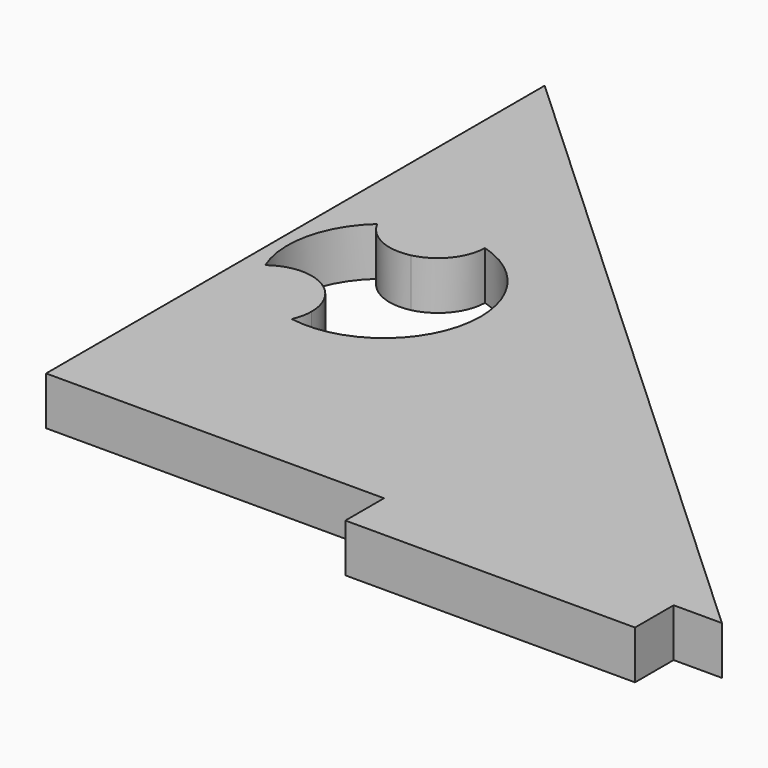
from build123d import *

# Parameters (mm, degrees)
F1_DEPTH = 5
F2_W     = 30
F2_H     = 5
F3_DEPTH = 5
F5_DEPTH = 5.001


with BuildPart() as f1:
    # F0 (on Top) → F1 (new body)
    with BuildSketch(Plane.XY):
        Polygon((-35, -80), (35, -80), (-35, -15.451086), align=None)
    extrude(amount=F1_DEPTH)

    # F2 (on face) → F3 (join)
    with BuildSketch(Plane.XY.offset(5)):
        with Locations((15, -82.5)):
            Rectangle(F2_W, F2_H)
    extrude(amount=-F3_DEPTH)

    # F4 (on face) → F5 (cut, through all)
    with BuildSketch(Plane.XY.offset(5)):
        with BuildLine():
            Line((-24.877707, -45.415195), (-23.765102, -50.289835))
            Line((-23.765102, -50.289835), (-26.882551, -54.198992))
            ThreePointArc((-26.882551, -54.198992), (-25.495156, -55.938731), (-25, -58.10815))
            ThreePointArc((-25, -58.10815), (-25.110116, -59.151716), (-25.435612, -60.149317))
            ThreePointArc((-25.435612, -60.149317), (-17.311619, -57.928719), (-13.765102, -50.289835))
            ThreePointArc((-13.765102, -50.289835), (-15.773609, -44.278509), (-20.992311, -40.681941))
            ThreePointArc((-20.992311, -40.681941), (-22.125625, -43.712968), (-24.877707, -45.415195))
        make_face()
        with BuildLine():
            Line((-26.882551, -54.198992), (-23.765102, -50.289835))
            Line((-23.765102, -50.289835), (-24.877707, -45.415195))
            ThreePointArc((-24.877707, -45.415195), (-28.095815, -45.075625), (-30.43201, -42.836491))
            ThreePointArc((-30.43201, -42.836491), (-33.514381, -48.064626), (-33.005663, -54.112403))
            ThreePointArc((-33.005663, -54.112403), (-29.9293, -53.10865), (-26.882551, -54.198992))
        make_face()
    extrude(amount=-F5_DEPTH, mode=Mode.SUBTRACT)


solid = f1.part
